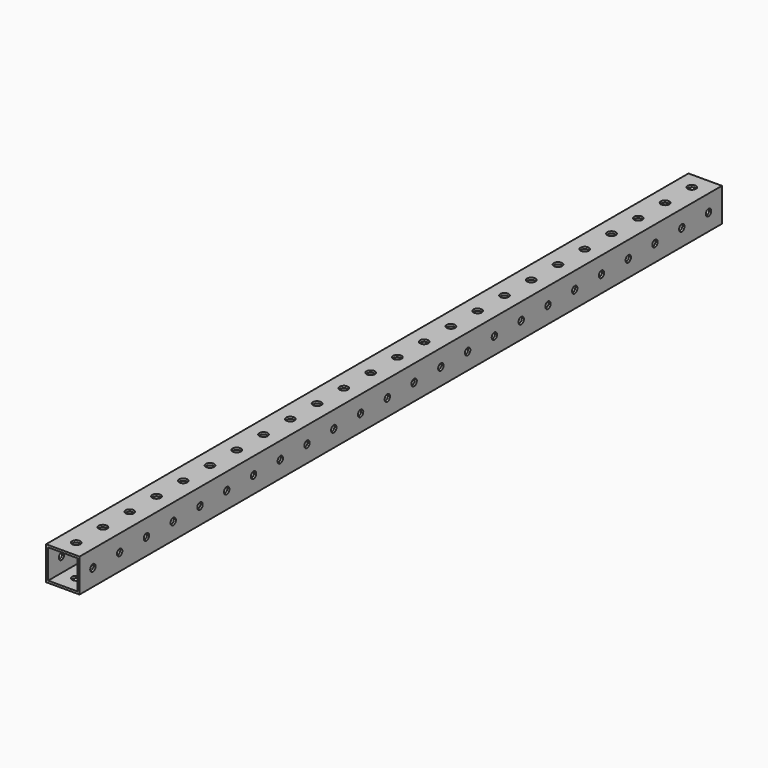
from build123d import *

# Parameters (mm, degrees)
F0_W     = 25.4
F0_H     = 25.4
F0_W_2   = 22.225
F0_H_2   = 22.225
F1_DEPTH = 609.6
F2_R     = 3.175
F3_DEPTH = 25.4
F4_R     = 2.5527
F5_DEPTH = 25.4


with BuildPart() as f1:
    # F0 (on Front) → F1 (new body)
    with BuildSketch(Plane.XZ):
        Rectangle(F0_W, F0_H)
        Rectangle(F0_W_2, F0_H_2, mode=Mode.SUBTRACT)
    extrude(amount=F1_DEPTH)

    # F2 (on face) → F3 (cut)
    with BuildSketch(Plane.XY.offset(12.7)):
        with Locations((0, -12.7)):
            Circle(F2_R)
        with Locations((0, -38.1)):
            Circle(F2_R)
        with Locations((0, -63.5)):
            Circle(F2_R)
        with Locations((0, -88.9)):
            Circle(F2_R)
        with Locations((0, -114.3)):
            Circle(F2_R)
        with Locations((0, -139.7)):
            Circle(F2_R)
        with Locations((0, -165.1)):
            Circle(F2_R)
        with Locations((0, -190.5)):
            Circle(F2_R)
        with Locations((0, -215.9)):
            Circle(F2_R)
        with Locations((0, -241.3)):
            Circle(F2_R)
        with Locations((0, -266.7)):
            Circle(F2_R)
        with Locations((0, -292.1)):
            Circle(F2_R)
        with Locations((0, -317.5)):
            Circle(F2_R)
        with Locations((0, -342.9)):
            Circle(F2_R)
        with Locations((0, -368.3)):
            Circle(F2_R)
        with Locations((0, -393.7)):
            Circle(F2_R)
        with Locations((0, -419.1)):
            Circle(F2_R)
        with Locations((0, -444.5)):
            Circle(F2_R)
        with Locations((0, -469.9)):
            Circle(F2_R)
        with Locations((0, -495.3)):
            Circle(F2_R)
        with Locations((0, -520.7)):
            Circle(F2_R)
        with Locations((0, -546.1)):
            Circle(F2_R)
        with Locations((0, -571.5)):
            Circle(F2_R)
        with Locations((0, -596.9)):
            Circle(F2_R)
    extrude(amount=-F3_DEPTH, mode=Mode.SUBTRACT)

    # F4 (on face) → F5 (cut)
    with BuildSketch(Plane(origin=(-12.7, 0, 0), x_dir=(0, -1, 0), z_dir=(-1, 0, 0))):
        with Locations((12.7, 0)):
            Circle(F4_R)
        with Locations((38.1, 0)):
            Circle(F4_R)
        with Locations((63.5, 0)):
            Circle(F4_R)
        with Locations((88.9, 0)):
            Circle(F4_R)
        with Locations((114.3, 0)):
            Circle(F4_R)
        with Locations((139.7, 0)):
            Circle(F4_R)
        with Locations((165.1, 0)):
            Circle(F4_R)
        with Locations((190.5, 0)):
            Circle(F4_R)
        with Locations((215.9, 0)):
            Circle(F4_R)
        with Locations((241.3, 0)):
            Circle(F4_R)
        with Locations((266.7, 0)):
            Circle(F4_R)
        with Locations((292.1, 0)):
            Circle(F4_R)
        with Locations((317.5, 0)):
            Circle(F4_R)
        with Locations((342.9, 0)):
            Circle(F4_R)
        with Locations((368.3, 0)):
            Circle(F4_R)
        with Locations((393.7, 0)):
            Circle(F4_R)
        with Locations((419.1, 0)):
            Circle(F4_R)
        with Locations((444.5, 0)):
            Circle(F4_R)
        with Locations((469.9, 0)):
            Circle(F4_R)
        with Locations((495.3, 0)):
            Circle(F4_R)
        with Locations((520.7, 0)):
            Circle(F4_R)
        with Locations((546.1, 0)):
            Circle(F4_R)
        with Locations((571.5, 0)):
            Circle(F4_R)
        with Locations((596.9, 0)):
            Circle(F4_R)
    extrude(amount=-F5_DEPTH, mode=Mode.SUBTRACT)


solid = f1.part
